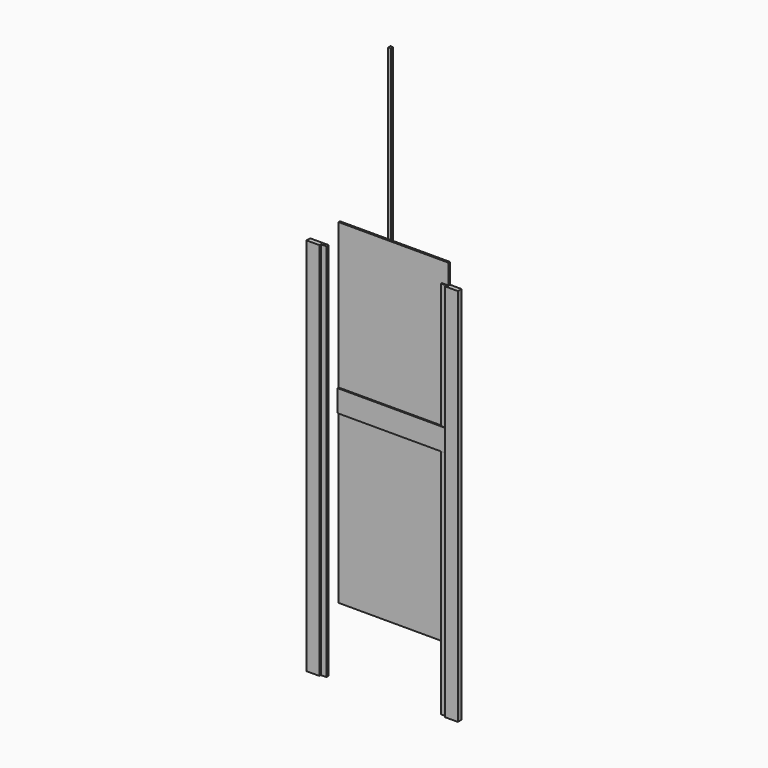
from build123d import *

# Parameters (mm, degrees)
F1_DEPTH  = 120
F2_W      = 70
F2_H      = 2065
F3_DEPTH  = 25
F2_W_2    = 30
F4_DEPTH  = 15
F5_W      = 70
F5_H      = 2065
F6_DEPTH  = 25
F5_W_2    = 30
F7_DEPTH  = 15
F8_W      = 600
F8_H      = 1825
F9_DEPTH  = 10
F10_W     = 15
F10_H     = 15
F11_DEPTH = 1825


with BuildPart() as f1:
    # F0 (on Top) → F1 (new body)
    with BuildSketch(Plane.XY):
        Polygon((270, 7.5), (-270, 7.5), (-270, -7.5), (-300, -7.5), (-300, -17.5), (300, -17.5), (300, -7.5), (270, -7.5), align=None)
    extrude(amount=F1_DEPTH)


with BuildPart() as f3:
    # F2 (on Front) → F3 (new body)
    with BuildSketch(Plane.XZ):
        with Locations((-426.7459588306, -254.2664706707)):
            Rectangle(F2_W, F2_H)
    extrude(amount=F3_DEPTH)

    # F2 (on Front) → F4 (join)
    with BuildSketch(Plane.XZ):
        with Locations((-376.7459588306, -254.2664706707)):
            Rectangle(F2_W_2, F2_H)
    extrude(amount=F4_DEPTH)


with BuildPart() as f6:
    # F5 (on Front) → F6 (new body)
    with BuildSketch(Plane.XZ):
        with Locations((327.1437698603, -229.4254589081)):
            Rectangle(F5_W, F5_H)
    extrude(amount=F6_DEPTH)

    # F5 (on Front) → F7 (join)
    with BuildSketch(Plane.XZ):
        with Locations((277.1437698603, -229.4254589081)):
            Rectangle(F5_W_2, F5_H)
    extrude(amount=F7_DEPTH)


with BuildPart() as f9:
    # F8 (on Front) → F9 (new body)
    with BuildSketch(Plane.XZ):
        Rectangle(F8_W, F8_H)
    extrude(amount=F9_DEPTH)


with BuildPart() as f11:
    # F10 (on Top) → F11 (new body)
    with BuildSketch(Plane.XY):
        with Locations((-37.039745599, 17.1142700847)):
            Rectangle(F10_W, F10_H)
    extrude(amount=F11_DEPTH)


solid = Compound([f1.part, f3.part, f6.part, f9.part, f11.part])
